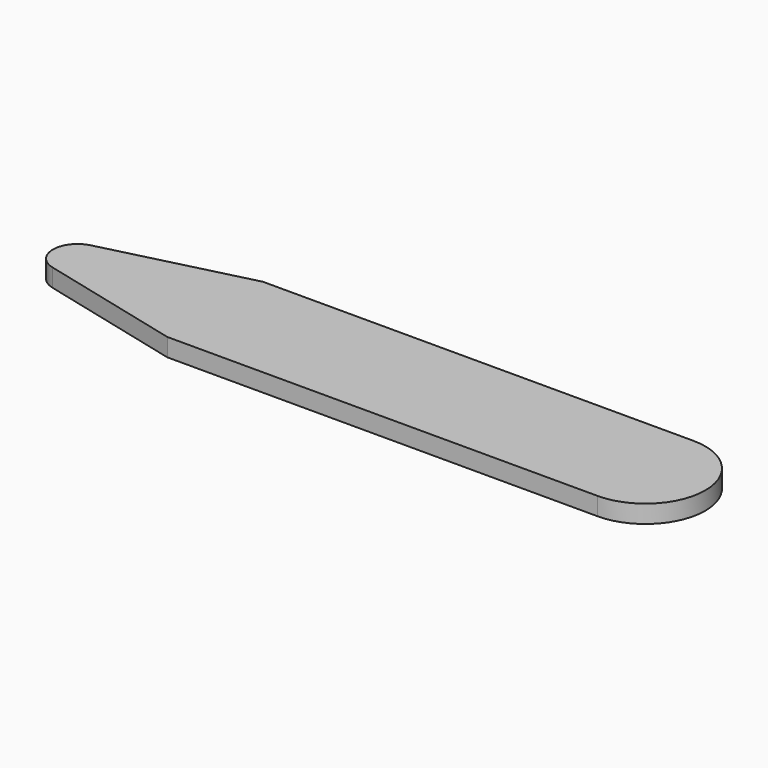
from build123d import *

# Parameters (mm, degrees)
F0_W     = 36
F0_H     = 10
F1_DEPTH = 1.5


with BuildPart() as f1:
    # F0 (on Top) → F1 (new body)
    with BuildSketch(Plane.XY):
        Rectangle(F0_W, F0_H)
        with BuildLine():
            Line((18, 5), (18, -5))
            ThreePointArc((18, -5), (23, 0), (18, 5))
        make_face()
        with BuildLine():
            Line((-30, -2), (-18, -5))
            Line((-18, -5), (-18, 5))
            Line((-18, 5), (-30, 2))
            ThreePointArc((-30, 2), (-31.561553, 0), (-30, -2))
        make_face()
    extrude(amount=F1_DEPTH)


solid = f1.part
